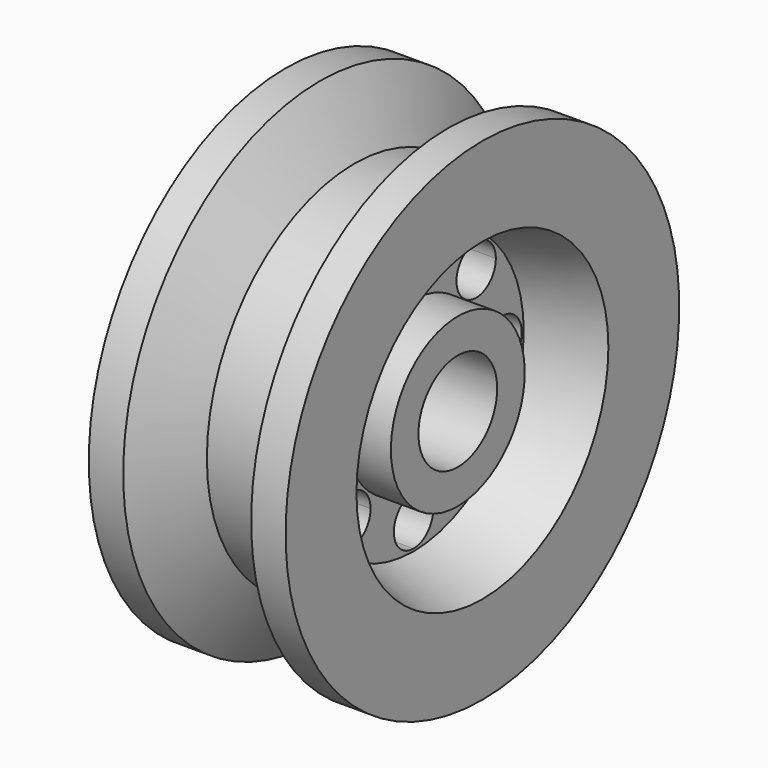
from build123d import *

# Parameters (mm, degrees)
F0_W     = 12
F0_H     = 11
F3_DEPTH = 25


with BuildPart() as f1:
    # F0 (on Front) → F1 (revolve)
    with BuildSketch(Plane.XZ):
        Polygon((15, -10), (-15, -10), (-15, -17), (-6, -17), (6, -17), (15, -17), align=None)
        with Locations((0, -22.5)):
            Rectangle(F0_W, F0_H)
        Polygon((-6, -28), (-20, -32), (-20, -50), (-13, -50), (-6, -37.5), (6, -37.5), (13, -50), (20, -50), (20, -32), (6, -28), align=None)
    revolve(axis=Axis((0, 0, 0), (1, 0, 0)))

    # F2 (on face) → F3 (cut)
    with BuildSketch(Plane.YZ.offset(6)):
        with BuildLine():
            ThreePointArc((-17.5, 0), (-22.5, 5), (-27.5, 0))
            Line((-27.5, 0), (-17.5, 0))
        make_face()
        with BuildLine():
            ThreePointArc((-19.445436, 19.445436), (-19.445436, 12.374369), (-12.374369, 12.374369))
            Line((-12.374369, 12.374369), (-19.445436, 19.445436))
        make_face()
        with BuildLine():
            Line((-19.445436, 19.445436), (-12.374369, 12.374369))
            ThreePointArc((-12.374369, 12.374369), (-11.290505, 13.996485), (-10.909903, 15.909903))
            ThreePointArc((-10.909903, 15.909903), (-13.996485, 20.5293), (-19.445436, 19.445436))
        make_face()
        with BuildLine():
            ThreePointArc((0, 27.5), (-5, 22.5), (0, 17.5))
            Line((0, 17.5), (0, 27.5))
        make_face()
        with BuildLine():
            Line((0, 27.5), (0, 17.5))
            ThreePointArc((0, 17.5), (3.535534, 18.964466), (5, 22.5))
            ThreePointArc((5, 22.5), (3.535534, 26.035534), (0, 27.5))
        make_face()
        with BuildLine():
            ThreePointArc((19.445436, 19.445436), (12.374369, 19.445436), (12.374369, 12.374369))
            Line((12.374369, 12.374369), (19.445436, 19.445436))
        make_face()
        with BuildLine():
            Line((19.445436, 19.445436), (12.374369, 12.374369))
            ThreePointArc((12.374369, 12.374369), (17.82332, 11.290505), (20.909903, 15.909903))
            ThreePointArc((20.909903, 15.909903), (20.5293, 17.82332), (19.445436, 19.445436))
        make_face()
        with BuildLine():
            ThreePointArc((27.5, 0), (22.5, 5), (17.5, 0))
            Line((17.5, 0), (27.5, 0))
        make_face()
        with BuildLine():
            Line((27.5, 0), (17.5, 0))
            ThreePointArc((17.5, 0), (22.5, -5), (27.5, 0))
        make_face()
        with BuildLine():
            ThreePointArc((20.909903, -15.909903), (17.82332, -11.290505), (12.374369, -12.374369))
            Line((12.374369, -12.374369), (19.445436, -19.445436))
            ThreePointArc((19.445436, -19.445436), (20.5293, -17.82332), (20.909903, -15.909903))
        make_face()
        with BuildLine():
            Line((19.445436, -19.445436), (12.374369, -12.374369))
            ThreePointArc((12.374369, -12.374369), (12.374369, -19.445436), (19.445436, -19.445436))
        make_face()
        with BuildLine():
            ThreePointArc((5, -22.5), (3.535534, -18.964466), (0, -17.5))
            Line((0, -17.5), (0, -27.5))
            ThreePointArc((0, -27.5), (3.535534, -26.035534), (5, -22.5))
        make_face()
        with BuildLine():
            Line((0, -27.5), (0, -17.5))
            ThreePointArc((0, -17.5), (-5, -22.5), (0, -27.5))
        make_face()
        with BuildLine():
            ThreePointArc((-10.909903, -15.909903), (-11.290505, -13.996485), (-12.374369, -12.374369))
            Line((-12.374369, -12.374369), (-19.445436, -19.445436))
            ThreePointArc((-19.445436, -19.445436), (-13.996485, -20.5293), (-10.909903, -15.909903))
        make_face()
        with BuildLine():
            Line((-19.445436, -19.445436), (-12.374369, -12.374369))
            ThreePointArc((-12.374369, -12.374369), (-19.445436, -12.374369), (-19.445436, -19.445436))
        make_face()
        with BuildLine():
            Line((-17.5, 0), (-27.5, 0))
            ThreePointArc((-27.5, 0), (-22.5, -5), (-17.5, 0))
        make_face()
    extrude(amount=-F3_DEPTH, mode=Mode.SUBTRACT)


solid = f1.part
